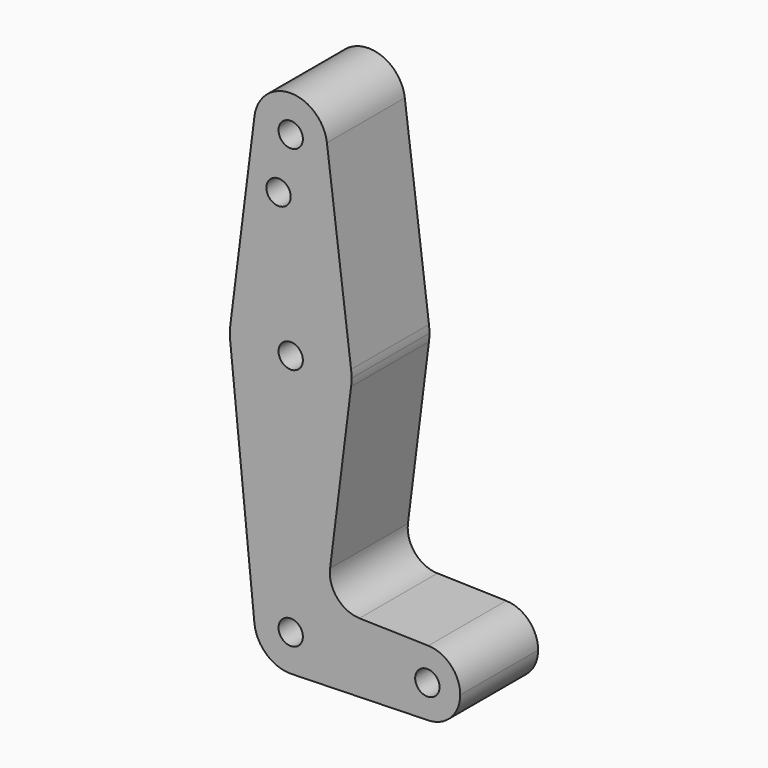
from build123d import *

# Parameters (mm, degrees)
F0_R     = 3.175
F1_DEPTH = 25.4
F2_DEPTH = 25.4


with BuildPart() as f1:
    # F0 (on Front) → F1 (new body)
    with BuildSketch(Plane.XZ):
        with BuildLine():
            ThreePointArc((-9.450293, 115.490625), (-0.596483, 104.793695), (9.525, 114.3))
            ThreePointArc((9.525, 114.3), (9.506305, 114.896483), (9.450293, 115.490625))
            ThreePointArc((9.450293, 115.490625), (0, 123.825), (-9.450293, 115.490625))
        make_face()
        with Locations((0, 114.3)):
            Circle(F0_R, mode=Mode.SUBTRACT)
        with BuildLine():
            ThreePointArc((9.450293, 115.490625), (9.506305, 114.896483), (9.525, 114.3))
            ThreePointArc((9.525, 114.3), (-0.596483, 104.793695), (-9.450293, 115.490625))
            Line((-9.450293, 115.490625), (-15.750488, 65.484375))
            ThreePointArc((-15.750488, 65.484375), (0, 79.375), (15.750488, 65.484375))
            Line((15.750488, 65.484375), (9.450293, 115.490625))
        make_face()
        with Locations((-3.175, 100.0252)):
            Circle(F0_R, mode=Mode.SUBTRACT)
        with BuildLine():
            ThreePointArc((15.875, 63.5), (15.843841, 64.494139), (15.750488, 65.484375))
            ThreePointArc((15.750488, 65.484375), (0, 79.375), (-15.750488, 65.484375))
            ThreePointArc((-15.750488, 65.484375), (-15.873744, 63.699705), (-15.795426, 61.9125))
            ThreePointArc((-15.795426, 61.9125), (-0.199705, 47.626256), (15.750488, 61.515625))
            ThreePointArc((15.750488, 61.515625), (15.843841, 62.505861), (15.875, 63.5))
        make_face()
        with Locations((0, 63.5)):
            Circle(F0_R, mode=Mode.SUBTRACT)
        with BuildLine():
            ThreePointArc((15.750488, 61.515625), (-0.199705, 47.626256), (-15.795426, 61.9125))
            Line((-15.795426, 61.9125), (-9.477255, -0.9525))
            ThreePointArc((-9.477255, -0.9525), (-7.063929, 6.389564), (0, 9.525))
            ThreePointArc((0, 9.525), (0.253535, 9.521625), (0.506891, 9.511503))
            ThreePointArc((0.506891, 9.511503), (6.912082, 6.553529), (9.525, 0))
            ThreePointArc((9.525, 0), (6.912082, -6.553529), (0.506891, -9.511503))
            Line((0.506891, -9.511503), (35.885598, -8.569463))
            ThreePointArc((35.885598, -8.569463), (27.084916, 0), (35.885598, 8.569463))
            Line((35.885598, 8.569463), (17.942799, 9.047231))
            ThreePointArc((17.942799, 9.047231), (12.122303, 11.815881), (10.266572, 17.988389))
            Line((10.266572, 17.988389), (15.750488, 61.515625))
        make_face()
        with BuildLine():
            ThreePointArc((0, 9.525), (-7.063929, 6.389564), (-9.477255, -0.9525))
            ThreePointArc((-9.477255, -0.9525), (-6.389564, -7.063929), (0, -9.525))
            Line((0, -9.525), (0.506891, -9.511503))
            ThreePointArc((0.506891, -9.511503), (6.912082, -6.553529), (9.525, 0))
            ThreePointArc((9.525, 0), (6.912082, 6.553529), (0.506891, 9.511503))
            Line((0.506891, 9.511503), (0, 9.525))
        make_face()
        Circle(F0_R, mode=Mode.SUBTRACT)
        with BuildLine():
            Line((0.506891, -9.511503), (0, -9.525))
            ThreePointArc((0, -9.525), (0.253535, -9.521625), (0.506891, -9.511503))
        make_face()
        with BuildLine():
            ThreePointArc((44.229916, 0), (41.799234, 5.980454), (35.885598, 8.569463))
            ThreePointArc((35.885598, 8.569463), (27.084916, 0), (35.885598, -8.569463))
            ThreePointArc((35.885598, -8.569463), (41.799234, -5.980454), (44.229916, 0))
        make_face()
        with Locations((35.657416, 0)):
            Circle(F0_R, mode=Mode.SUBTRACT)
    extrude(amount=F1_DEPTH)

    # F0 (on Front) → F2 (join)
    with BuildSketch(Plane.XZ):
        with BuildLine():
            ThreePointArc((-9.450293, 115.490625), (-0.596483, 104.793695), (9.525, 114.3))
            ThreePointArc((9.525, 114.3), (9.506305, 114.896483), (9.450293, 115.490625))
            ThreePointArc((9.450293, 115.490625), (0, 123.825), (-9.450293, 115.490625))
        make_face()
        with Locations((0, 114.3)):
            Circle(F0_R, mode=Mode.SUBTRACT)
        with BuildLine():
            ThreePointArc((9.450293, 115.490625), (9.506305, 114.896483), (9.525, 114.3))
            ThreePointArc((9.525, 114.3), (-0.596483, 104.793695), (-9.450293, 115.490625))
            Line((-9.450293, 115.490625), (-15.750488, 65.484375))
            ThreePointArc((-15.750488, 65.484375), (0, 79.375), (15.750488, 65.484375))
            Line((15.750488, 65.484375), (9.450293, 115.490625))
        make_face()
        with Locations((-3.175, 100.0252)):
            Circle(F0_R, mode=Mode.SUBTRACT)
        with BuildLine():
            ThreePointArc((15.875, 63.5), (15.843841, 64.494139), (15.750488, 65.484375))
            ThreePointArc((15.750488, 65.484375), (0, 79.375), (-15.750488, 65.484375))
            ThreePointArc((-15.750488, 65.484375), (-15.873744, 63.699705), (-15.795426, 61.9125))
            ThreePointArc((-15.795426, 61.9125), (-0.199705, 47.626256), (15.750488, 61.515625))
            ThreePointArc((15.750488, 61.515625), (15.843841, 62.505861), (15.875, 63.5))
        make_face()
        with Locations((0, 63.5)):
            Circle(F0_R, mode=Mode.SUBTRACT)
        with BuildLine():
            ThreePointArc((15.750488, 61.515625), (-0.199705, 47.626256), (-15.795426, 61.9125))
            Line((-15.795426, 61.9125), (-9.477255, -0.9525))
            ThreePointArc((-9.477255, -0.9525), (-7.063929, 6.389564), (0, 9.525))
            ThreePointArc((0, 9.525), (0.253535, 9.521625), (0.506891, 9.511503))
            ThreePointArc((0.506891, 9.511503), (6.912082, 6.553529), (9.525, 0))
            ThreePointArc((9.525, 0), (6.912082, -6.553529), (0.506891, -9.511503))
            Line((0.506891, -9.511503), (35.885598, -8.569463))
            ThreePointArc((35.885598, -8.569463), (27.084916, 0), (35.885598, 8.569463))
            Line((35.885598, 8.569463), (17.942799, 9.047231))
            ThreePointArc((17.942799, 9.047231), (12.122303, 11.815881), (10.266572, 17.988389))
            Line((10.266572, 17.988389), (15.750488, 61.515625))
        make_face()
        with BuildLine():
            ThreePointArc((0, 9.525), (-7.063929, 6.389564), (-9.477255, -0.9525))
            ThreePointArc((-9.477255, -0.9525), (-6.389564, -7.063929), (0, -9.525))
            Line((0, -9.525), (0.506891, -9.511503))
            ThreePointArc((0.506891, -9.511503), (6.912082, -6.553529), (9.525, 0))
            ThreePointArc((9.525, 0), (6.912082, 6.553529), (0.506891, 9.511503))
            Line((0.506891, 9.511503), (0, 9.525))
        make_face()
        Circle(F0_R, mode=Mode.SUBTRACT)
        with BuildLine():
            Line((0.506891, -9.511503), (0, -9.525))
            ThreePointArc((0, -9.525), (0.253535, -9.521625), (0.506891, -9.511503))
        make_face()
        with BuildLine():
            ThreePointArc((44.229916, 0), (41.799234, 5.980454), (35.885598, 8.569463))
            ThreePointArc((35.885598, 8.569463), (27.084916, 0), (35.885598, -8.569463))
            ThreePointArc((35.885598, -8.569463), (41.799234, -5.980454), (44.229916, 0))
        make_face()
        with Locations((35.657416, 0)):
            Circle(F0_R, mode=Mode.SUBTRACT)
    extrude(amount=F2_DEPTH)


solid = f1.part
